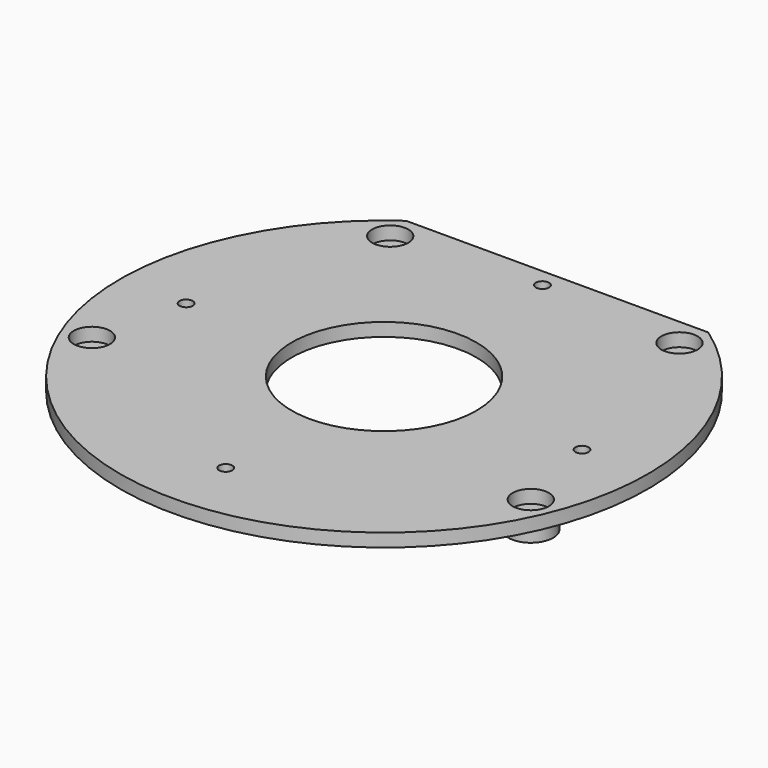
from build123d import *

# Parameters (mm, degrees)
F0_R     = 2.5
F0_R_2   = 6.86
F0_R_3   = 35
F1_DEPTH = 5
F2_R     = 8.5
F3_DEPTH = 5


with BuildPart() as f1:
    # F0 (on Top) → F1 (new body)
    with BuildSketch(Plane.XY):
        with BuildLine():
            Line((57.236352, 82), (-57.236352, 82))
            ThreePointArc((-57.236352, 82), (0, -100), (57.236352, 82))
        make_face()
        with Locations((0, -75)):
            Circle(F0_R, mode=Mode.SUBTRACT)
        with Locations((-83.149158, -34.441509)):
            Circle(F0_R_2, mode=Mode.SUBTRACT)
        with Locations((83.149158, -34.441509)):
            Circle(F0_R_2, mode=Mode.SUBTRACT)
        with Locations((-75, 0)):
            Circle(F0_R, mode=Mode.SUBTRACT)
        Circle(F0_R_3, mode=Mode.SUBTRACT)
        with Locations((-54.788529, 71.401801)):
            Circle(F0_R_2, mode=Mode.SUBTRACT)
        with Locations((0, 75)):
            Circle(F0_R, mode=Mode.SUBTRACT)
        with Locations((75, 0)):
            Circle(F0_R, mode=Mode.SUBTRACT)
        with Locations((54.788529, 71.401801)):
            Circle(F0_R_2, mode=Mode.SUBTRACT)
    extrude(amount=F1_DEPTH)

    # F2 (on face) → F3 (join)
    with BuildSketch(Plane(origin=(0, 0, 0), x_dir=(1, 0, 0), z_dir=(0, 0, -1))):
        with Locations((83.149158, 34.441509)):
            Circle(F2_R)
        with Locations((54.788529, -71.401801)):
            Circle(F2_R)
        with Locations((-54.788529, -71.401801)):
            Circle(F2_R)
        with Locations((-83.149158, 34.441509)):
            Circle(F2_R)
    extrude(amount=F3_DEPTH)


solid = f1.part
